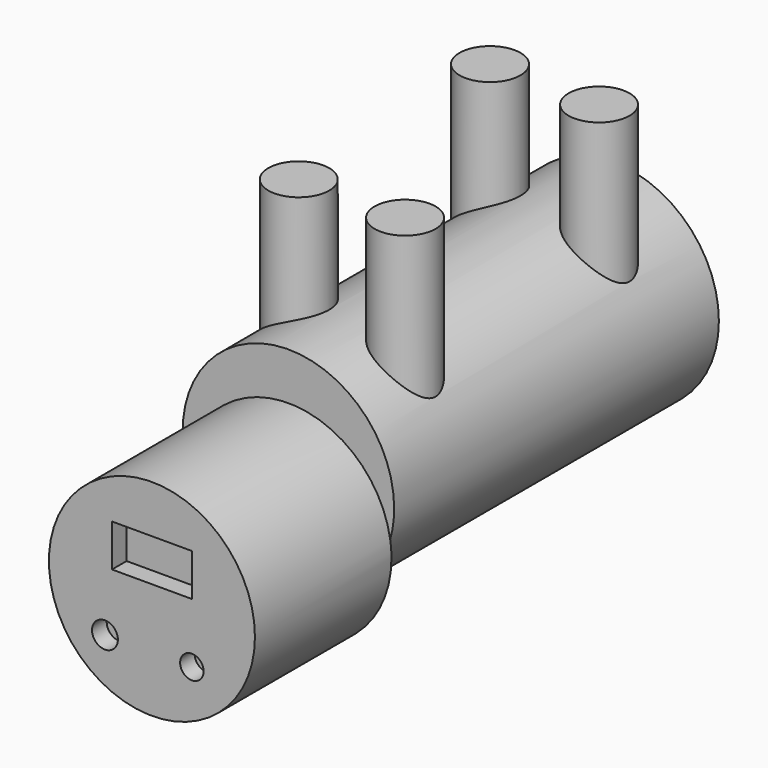
from build123d import *

# Parameters (mm, degrees)
F0_R     = 22.026537
F1_DEPTH = 84.582
F2_R     = 6.35
F3_DEPTH = 45.72
F4_R     = 21.464909
F5_DEPTH = 35.56
F6_R     = 2.691467
F6_R_2   = 2.446789
F6_W     = 16.638168
F6_H     = 8.80844
F7_DEPTH = 3.81


with BuildPart() as f1:
    # F0 (on Front) → F1 (new body)
    with BuildSketch(Plane.XZ):
        with Locations((0, 2.20211)):
            Circle(F0_R)
    extrude(amount=F1_DEPTH)

    # F2 (on Top) → F3 (join)
    with BuildSketch(Plane.XY):
        with Locations((-11.390769, -17.843104)):
            Circle(F2_R)
        with Locations((11.357995, -17.872222)):
            Circle(F2_R)
        with Locations((-10.32545, -68.983197)):
            Circle(F2_R)
        with Locations((11.616129, -68.725064)):
            Circle(F2_R)
    extrude(amount=F3_DEPTH)

    # F4 (on face) → F5 (join)
    with BuildSketch(Plane.XZ.offset(84.582)):
        with Locations((0, -7.095688)):
            Circle(F4_R)
    extrude(amount=F5_DEPTH)

    # F6 (on face) → F7 (cut)
    with BuildSketch(Plane.XZ.offset(120.142)):
        with Locations((-9.787156, -16.882844)):
            Circle(F6_R)
        with Locations((8.319084, -16.882844)):
            Circle(F6_R_2)
        Rectangle(F6_W, F6_H)
    extrude(amount=-F7_DEPTH, mode=Mode.SUBTRACT)


solid = f1.part
